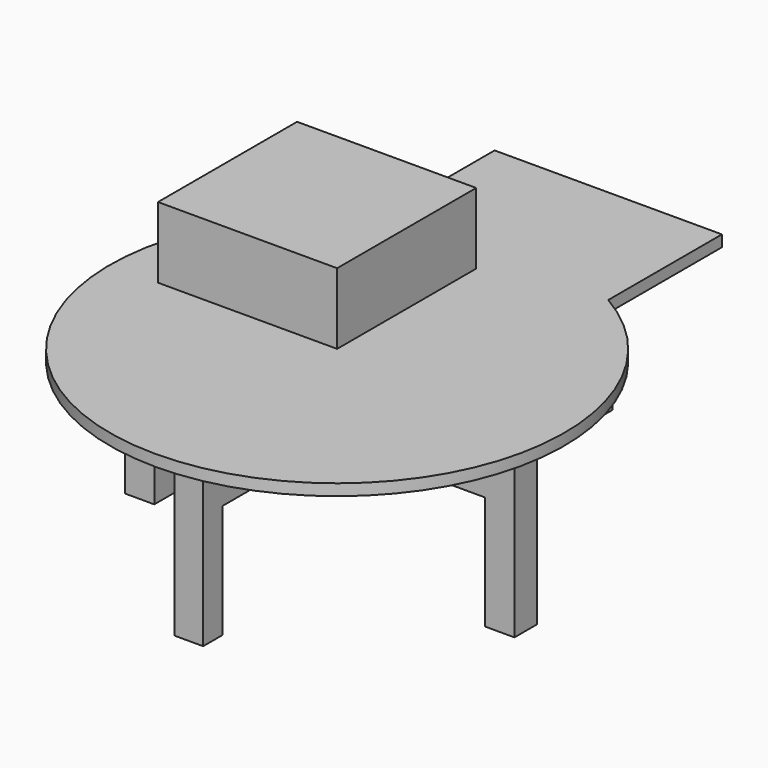
from build123d import *

# Parameters (mm, degrees)
F2_DEPTH = 4
F3_W     = 63.5204769373
F3_H     = 10
F3_W_2   = 10
F3_W_3   = 63.4795230627
F4_DEPTH = 20
F5_W     = 10.3620196581
F5_H     = 10
F5_W_2   = 10.2485753596
F5_W_3   = 10
F5_H_2   = 8.5477627644
F5_H_3   = 10.3687997332
F6_DEPTH = 40
F7_W     = 63.041254878
F7_H     = 61.1792467535
F8_DEPTH = 25


with BuildPart() as f2:
    # F0 (on Top) → F2 (new body)
    with BuildSketch(Plane.XY):
        with BuildLine():
            Line((-40, 119.2820323028), (-40, 69.2820323028))
            ThreePointArc((-40, 69.2820323028), (0, -80), (40, 69.2820323028))
            Line((40, 69.2820323028), (40, 119.2820323028))
            Line((40, 119.2820323028), (-40, 119.2820323028))
        make_face()
    extrude(amount=F2_DEPTH)

    # F3 (on face) → F4 (join)
    with BuildSketch(Plane.XY):
        Polygon((5, 114.8120965233), (0, 114.8120965233), (-5, 114.8120965233), (-5, 2.3505634069), (5, 2.3505634069), align=None)
        with Locations((36.7602384686, -2.6494365931)):
            Rectangle(F3_W, F3_H)
        with Locations((0, -2.6494365931)):
            Rectangle(F3_W_2, F3_H)
        with Locations((-36.7397615314, -2.6494365931)):
            Rectangle(F3_W_3, F3_H)
        Polygon((5, -65.1879034767), (5, -7.6494365931), (-5, -7.6494365931), (-5, -65.1879034767), (0, -65.1879034767), align=None)
    extrude(amount=-F4_DEPTH)

    # F5 (on face) → F6 (join)
    with BuildSketch(Plane(origin=(0, 0, -20), x_dir=(1, 0, 0), z_dir=(0, 0, -1))):
        with Locations((63.3394671082, 2.6494365931)):
            Rectangle(F5_W, F5_H)
        with Locations((-63.3552353829, 2.6494365931)):
            Rectangle(F5_W_2, F5_H)
        with Locations((0, 60.9140220945)):
            Rectangle(F5_W_3, F5_H_2)
        with Locations((0, -109.6276966567)):
            Rectangle(F5_W_3, F5_H_3)
    extrude(amount=F6_DEPTH)

    # F7 (on face) → F8 (join)
    with BuildSketch(Plane.XY.offset(4)):
        with Locations((-31.520627439, 30.5896233767)):
            Rectangle(F7_W, F7_H)
    extrude(amount=F8_DEPTH)


solid = f2.part
